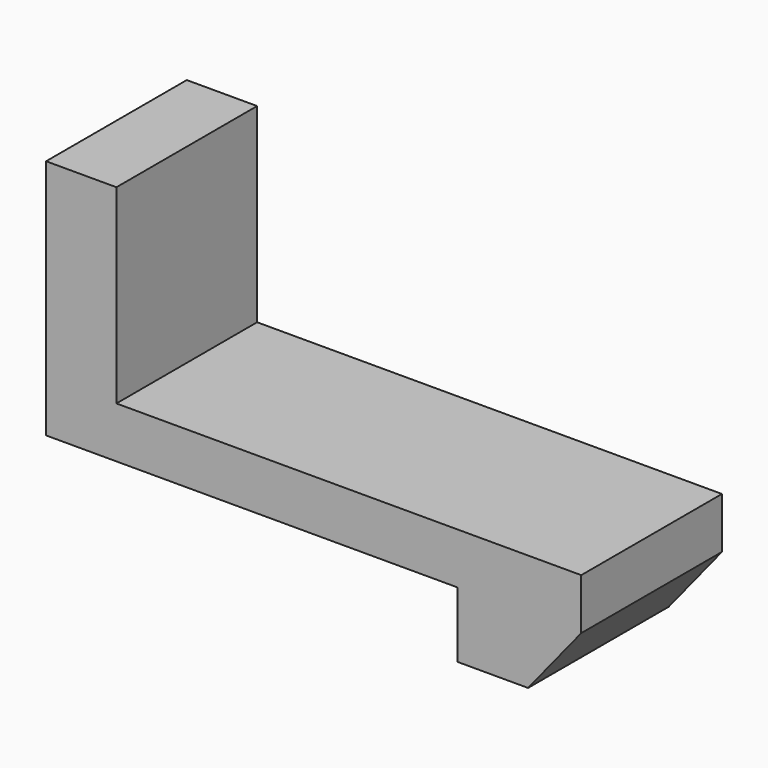
from build123d import *

# Parameters (mm, degrees)
F1_DEPTH = 25


with BuildPart() as f1:
    # F0 (on Front) → F1 (new body)
    with BuildSketch(Plane.XZ):
        Polygon((38.039217, -3.627451), (38.039217, 3.627451), (-28.039217, 3.627451), (-28.039217, 30.686275), (-38.039217, 30.686275), (-38.039217, 3.627451), (-38.039217, -3.627451), (20.480949, -3.627451), align=None)
        Polygon((30.480949, -12.947997), (38.039217, -3.627451), (20.480949, -3.627451), (20.480949, -12.947997), align=None)
    extrude(amount=F1_DEPTH)


solid = f1.part
